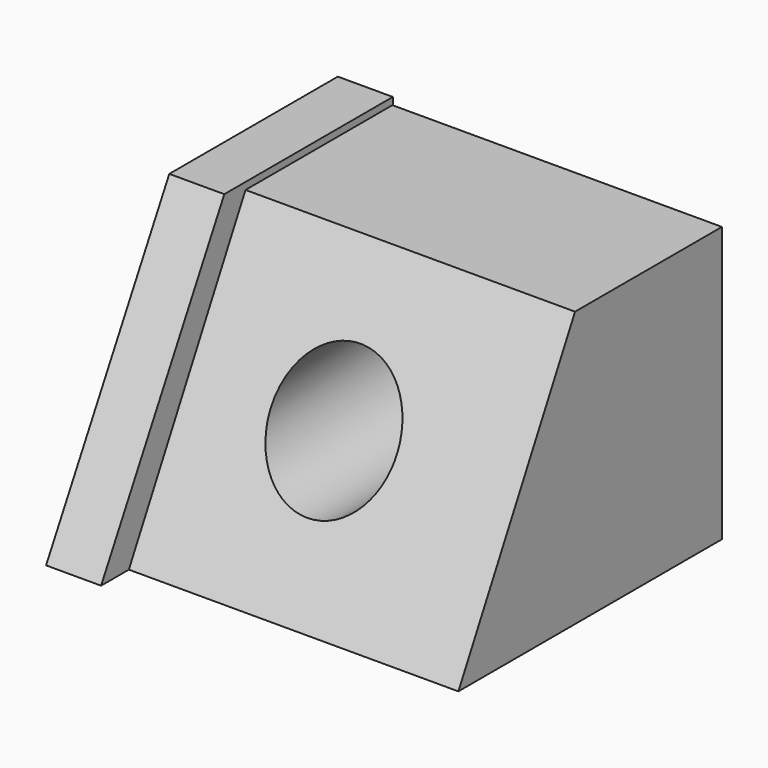
from build123d import *

# Parameters (mm, degrees)
F0_W      = 152.1705836058
F0_H      = 152.1167457104
F1_DEPTH  = 127
F3_DEPTH  = 254
F4_R      = 29.1263890726
F5_DEPTH  = 2540
F7_W      = 168.390661478
F7_H      = 130.2470117807
F8_DEPTH  = 25.4
F10_DEPTH = 2540


with BuildPart() as f1:
    # F0 (on Top) → F1 (new body)
    with BuildSketch(Plane.XY):
        with Locations((0.122949481, 0.0709816813)):
            Rectangle(F0_W, F0_H)
    extrude(amount=F1_DEPTH)

    # F2 (on face) → F3 (cut)
    with BuildSketch(Plane(origin=(-75.9623423219, 0, 0), x_dir=(0, -1, 0), z_dir=(-1, 0, 0))):
        Polygon((75.9873911738, 127), (8.6493911222, 127), (75.9873911738, 0), align=None)
    extrude(amount=-F3_DEPTH, mode=Mode.SUBTRACT)

    # F4 (on face) → F5 (cut)
    with BuildSketch(Plane(origin=(0, 76.1293545365, 0), x_dir=(-1, 0, 0), z_dir=(0, 1, 0))):
        with Locations((8.6046149954, 64.465470612)):
            Circle(F4_R)
    extrude(amount=-F5_DEPTH, mode=Mode.SUBTRACT)

    # F7 (on face) → F8 (join)
    with BuildSketch(Plane(origin=(-75.9623423219, 0, 0), x_dir=(0, -1, 0), z_dir=(-1, 0, 0))):
        with Locations((7.8207552433, 65.1235058904)):
            Rectangle(F7_W, F7_H)
    extrude(amount=F8_DEPTH)

    # F9 (on face) → F10 (cut)
    with BuildSketch(Plane.YZ.offset(-75.9623423219)):
        Polygon((-92.0160859823, 0), (-20.8989176899, 130.2470117807), (-92.0160859823, 130.2470117807), align=None)
    extrude(amount=-F10_DEPTH, mode=Mode.SUBTRACT)


solid = f1.part
